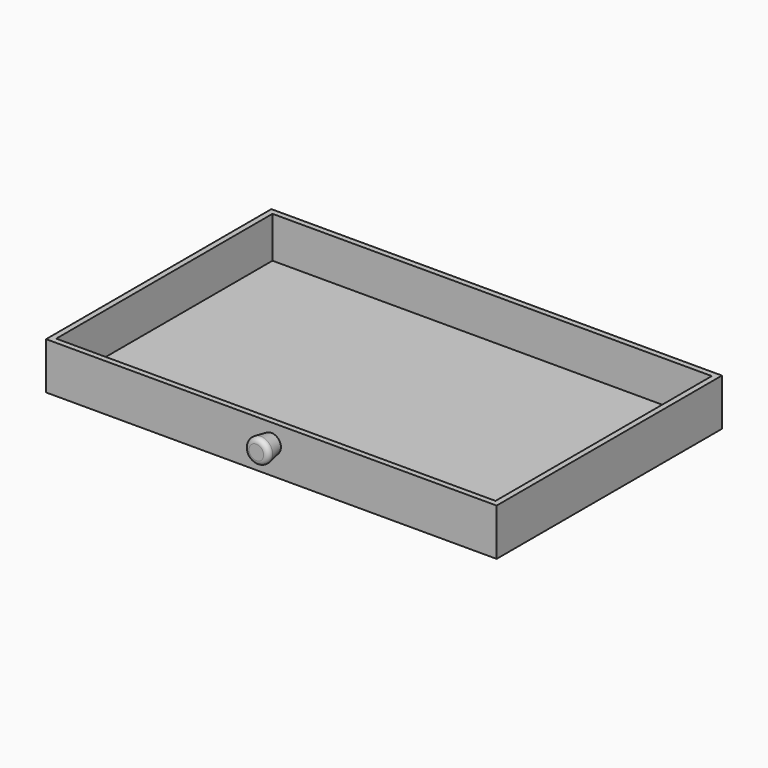
from build123d import *

# Parameters (mm, degrees)
F0_W     = 480
F0_H     = 300
F1_DEPTH = 50
F2_T     = -6
F3_R     = 10.1878589924
F4_DEPTH = 20
F4_TAPER = -10
F5_R     = 5


with BuildPart() as f1:
    # F0 (on Top) → F1 (new body)
    with BuildSketch(Plane.XY):
        with Locations((109.0484277904, 48.0776532779)):
            Rectangle(F0_W, F0_H)
    extrude(amount=F1_DEPTH)

    # F2
    f2_openings = [f1.faces().sort_by_distance(p)[0] for p in [
        (109.048428, 48.077653, 50),
    ]]
    offset(amount=F2_T, openings=f2_openings)

    # F3 (on face) → F4 (join)
    with BuildSketch(Plane.XZ.offset(101.9223467221)):
        with Locations((109.0484277904, 30)):
            Circle(F3_R)
    extrude(amount=F4_DEPTH, taper=F4_TAPER)

    # F5
    f5_edges = [f1.edges().sort_by_distance(p)[0] for p in [
        (95.334029, -121.922347, 30),
    ]]
    fillet(f5_edges, radius=F5_R)


solid = f1.part
